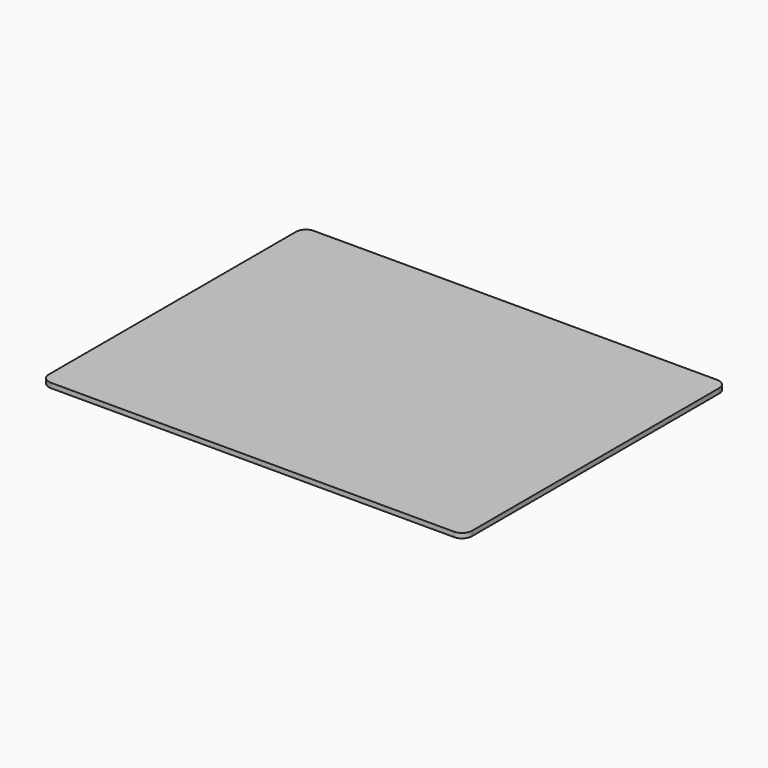
from build123d import *

# Parameters (mm, degrees)
SKETCH008_W  = 296
SKETCH008_H  = 230
PAD001_DEPTH = 3.35
FILLET001_R  = 7


with BuildPart() as part:
    # Sketch008 → Pad001 (new body)
    with BuildSketch(Plane.XY.offset(15.88)):
        with Locations((148, 115)):
            Rectangle(SKETCH008_W, SKETCH008_H)
    extrude(amount=-PAD001_DEPTH)

    # Fillet001
    fillet001_edges = [part.edges().sort_by_distance(p)[0] for p in [
        (296, 230, 14.205),
        (0, 230, 14.205),
        (0, 0, 14.205),
        (296, 0, 14.205),
    ]]
    fillet(fillet001_edges, radius=FILLET001_R)


solid = part.part
